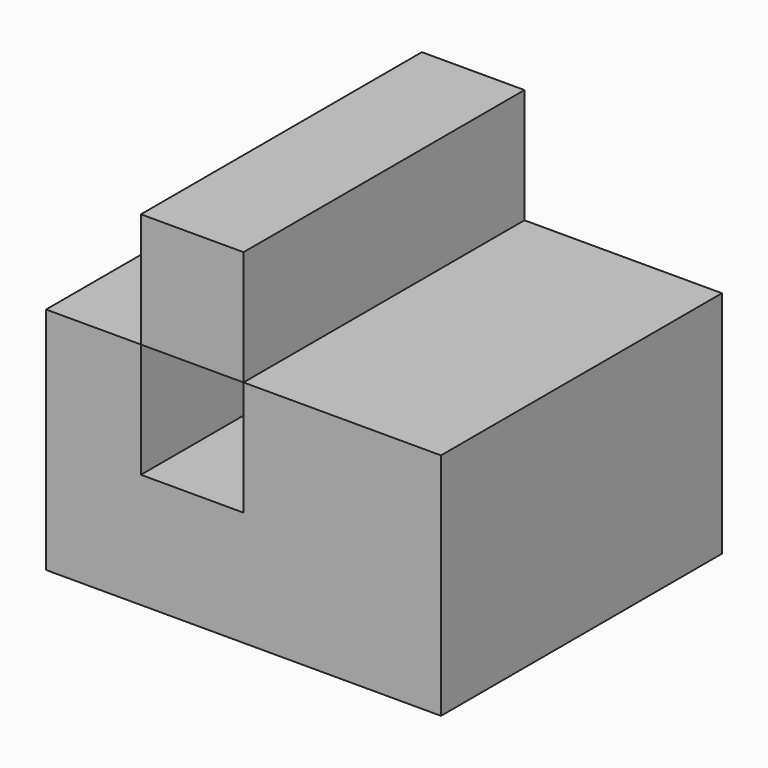
from build123d import *

# Parameters (mm, degrees)
F1_DEPTH = 25.4


with BuildPart() as f1:
    # F0 (on Front) → F1 (new body)
    with BuildSketch(Plane.XZ):
        Polygon((89.837968, 50.756112), (89.837968, 67.344069), (86.696103, 67.344069), (75.555913, 67.344069), (75.555913, 59.050091), (68.134822, 59.050091), (68.134822, 67.344069), (61.273858, 67.344069), (61.273858, 50.756112), align=None)
        Polygon((71.845368, 67.344069), (75.555913, 67.344069), (75.555913, 75.638048), (68.134822, 75.638048), (68.134822, 67.344069), align=None)
    extrude(amount=F1_DEPTH)


solid = f1.part
